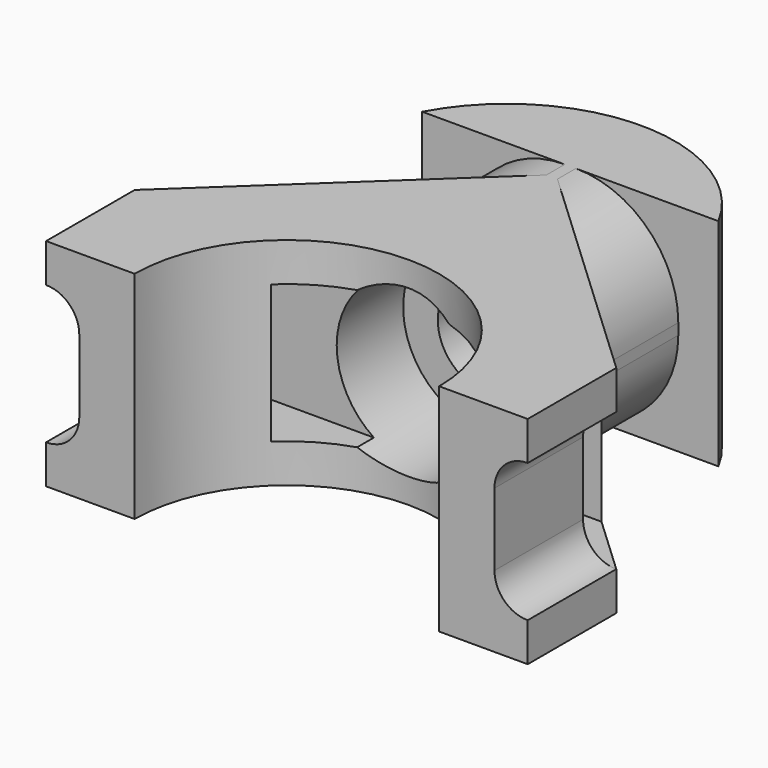
from build123d import *

# Parameters (mm, degrees)
PAD_DEPTH         = 3.9
PAD001_DEPTH      = 7.8
SKETCH002_R       = 1.75
POCKET_DEPTH      = 4.001
POCKET_DEPTH_BACK = 12.001
POCKET001_DEPTH   = 4
SKETCH004_R       = 3
POCKET002_DEPTH   = 6
SKETCH005_W       = 1.2
SKETCH005_H       = 5
POCKET003_DEPTH   = 16.001
SKETCH006_W       = 2
SKETCH006_H       = 5
POCKET004_DEPTH   = 17.401
FILLET_R          = 3.7
FILLET001_R       = 1.19


with BuildPart() as part:
    # Sketch → Pad (new body, symmetric)
    with BuildSketch(Plane.XY):
        with BuildLine():
            Line((-3.9, 0), (3.9, 0))
            Line((3.9, 0), (3.9, 0.8))
            Line((3.9, 0.8), (5.35, 0.8))
            ThreePointArc((5.35, 0.8), (0, 4), (-5.35, 0.8))
            Line((-5.35, 0.8), (-3.9, 0.8))
            Line((-3.9, 0.8), (-3.9, 0))
        make_face()
    extrude(amount=PAD_DEPTH, both=True)

    # Sketch001 (on Face7 of Pad) → Pad001 (join)
    with BuildSketch(Plane(origin=(0, 0, -3.9), x_dir=(1, 0, 0), z_dir=(0, 0, -1))):
        with BuildLine():
            Line((-8.7, 12), (-8.7, 8))
            Line((-8.7, 8), (-3.9, 3.5))
            Line((-3.9, 3.5), (-3.9, 0))
            Line((-3.9, 0), (3.9, 0))
            Line((3.9, 3.5), (3.9, 0))
            Line((8.7, 8), (3.9, 3.5))
            Line((8.7, 8), (8.7, 12))
            Line((8.7, 12), (5.5, 12))
            ThreePointArc((-5.5, 12), (0, 6.5), (5.5, 12))
            Line((-5.5, 12), (-8.7, 12))
        make_face()
    extrude(amount=-PAD001_DEPTH)

    # Sketch002 → Pocket (cut, two sides)
    with BuildSketch(Plane.XZ) as pocket_sk:
        Circle(SKETCH002_R)
    extrude(amount=-POCKET_DEPTH, mode=Mode.SUBTRACT)
    extrude(pocket_sk.sketch, amount=POCKET_DEPTH_BACK, mode=Mode.SUBTRACT)

    # Sketch003 (on DatumPlane) → Pocket001 (cut)
    with BuildSketch(Plane.XZ.offset(-4)):
        Polygon((-1.6, -2.771281), (1.6, -2.771281), (3.2, 0), (1.6, 2.771281), (-1.6, 2.771281), (-3.2, 0), align=None)
    extrude(amount=POCKET001_DEPTH, mode=Mode.SUBTRACT)

    # Sketch004 (on DatumPlane) → Pocket002 (cut)
    with BuildSketch(Plane.XZ.offset(3)):
        Circle(SKETCH004_R)
    extrude(amount=POCKET002_DEPTH, mode=Mode.SUBTRACT)

    # Sketch005 (on Face22 of Pocket002) → Pocket003 (cut, through all)
    with BuildSketch(Plane.XZ.offset(12)):
        with Locations((-8.1, 0)):
            Rectangle(SKETCH005_W, SKETCH005_H)
        with Locations((8.1, 0)):
            Rectangle(SKETCH005_W, SKETCH005_H)
    extrude(amount=-POCKET003_DEPTH, mode=Mode.SUBTRACT)

    # Sketch006 (on Face23 of Pocket003) → Pocket004 (cut, through all)
    with BuildSketch(Plane.YZ.offset(8.7)):
        with Locations((-7, 0)):
            Rectangle(SKETCH006_W, SKETCH006_H)
    extrude(amount=-POCKET004_DEPTH, mode=Mode.SUBTRACT)

    # Fillet
    fillet_edges = [part.edges().sort_by_distance(p)[0] for p in [
        (-3.9, -1.75, 3.9),
        (-3.9, -1.75, -3.9),
        (3.9, -1.75, 3.9),
        (3.9, -1.75, -3.9),
    ]]
    fillet(fillet_edges, radius=FILLET_R)

    # Fillet001
    fillet001_edges = [part.edges().sort_by_distance(p)[0] for p in [
        (7.5, -10, 2.5),
        (7.5, -10, -2.5),
        (-7.5, -10, 2.5),
        (-7.5, -10, -2.5),
    ]]
    fillet(fillet001_edges, radius=FILLET001_R)


solid = part.part
